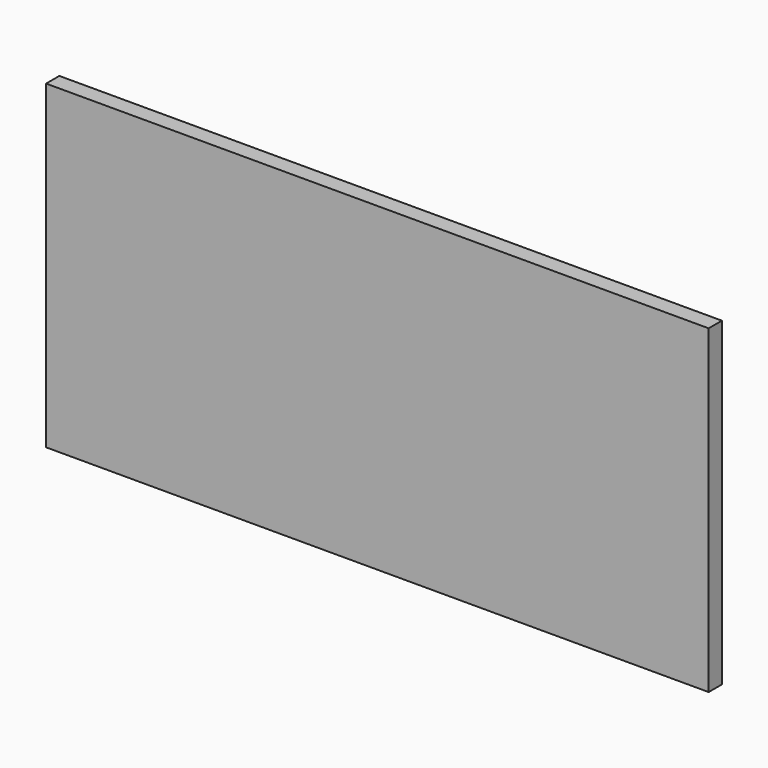
from build123d import *

# Parameters (mm, degrees)
SKETCH_W  = 600
SKETCH_H  = 290
PAD_DEPTH = 15


with BuildPart() as part:
    # Sketch → Pad (new body)
    with BuildSketch(Plane.XZ):
        with Locations((300, 145)):
            Rectangle(SKETCH_W, SKETCH_H)
    extrude(amount=PAD_DEPTH)


solid = part.part
